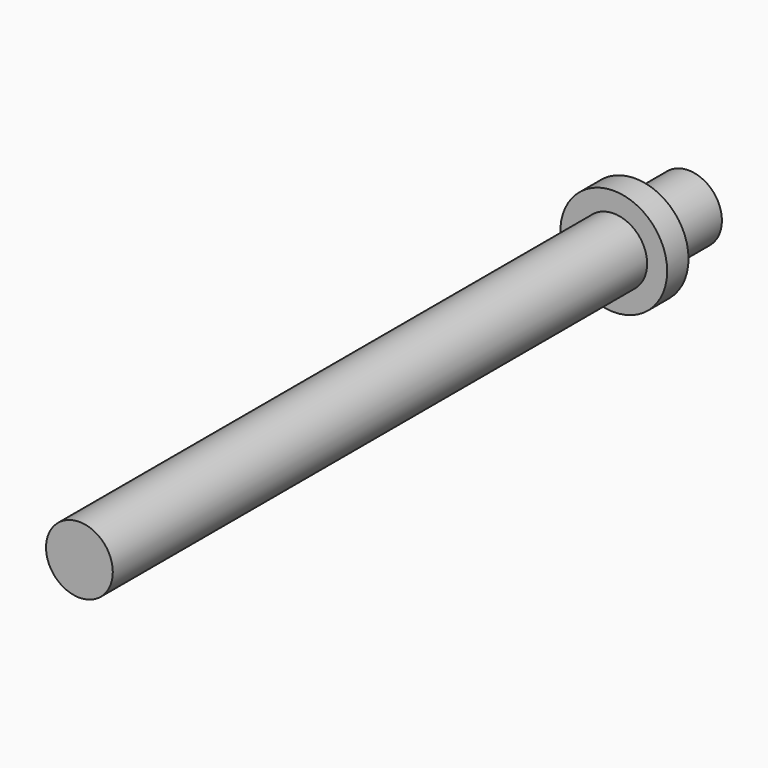
from build123d import *

# Parameters (mm, degrees)
F0_R     = 2.5
F1_DEPTH = 5
F2_R     = 4
F3_DEPTH = 2
F4_R     = 2.5
F5_DEPTH = 25
F6_DEPTH = 25


with BuildPart() as f1:
    # F0 (on Front) → F1 (new body)
    with BuildSketch(Plane.XZ):
        Circle(F0_R)
    extrude(amount=F1_DEPTH)

    # F2 (on face) → F3 (join)
    with BuildSketch(Plane.XZ.offset(5)):
        Circle(F2_R)
    extrude(amount=F3_DEPTH)

    # F4 (on face) → F5 (join)
    with BuildSketch(Plane.XZ.offset(7)):
        Circle(F4_R)
    extrude(amount=F5_DEPTH)

    # F6 (add): a face of the model
    f6_faces = [f1.faces().sort_by_distance(p)[0] for p in [
        (0, -32, 0),
    ]]
    extrude(f6_faces, amount=F6_DEPTH)


solid = f1.part
